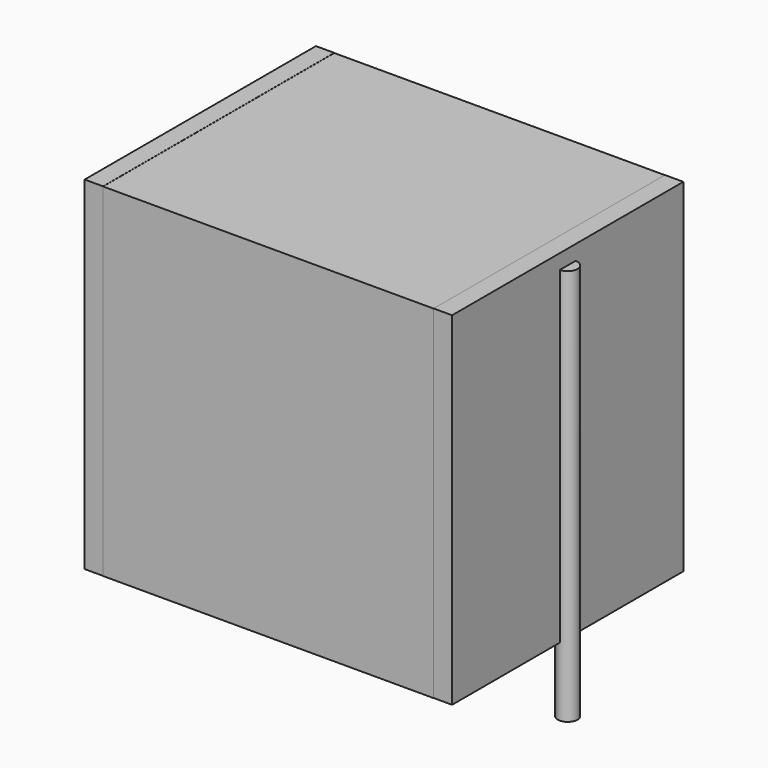
from build123d import *

# Parameters (mm, degrees)
SKETCH_W          = 13.5
SKETCH_H          = 11.8
PAD_DEPTH         = 14
SKETCH001_R       = 0.4
PAD001_DEPTH      = 13
PAD001_DEPTH_BACK = 3.2
SKETCH002_W       = 0.75
SKETCH002_H       = 11.8
PAD002_DEPTH      = 14


with BuildPart() as pad:
    # Sketch → Pad (new body)
    with BuildSketch(Plane.XY.offset(0.1)):
        with Locations((7.5, 0)):
            Rectangle(SKETCH_W, SKETCH_H)
    extrude(amount=PAD_DEPTH)


with BuildPart() as pad001:
    # Sketch001 → Pad001 (new body, two sides)
    with BuildSketch(Plane.XY.offset(0.5)) as pad001_sk:
        Circle(SKETCH001_R)
        with Locations((15, 0)):
            Circle(SKETCH001_R)
    extrude(amount=PAD001_DEPTH)
    extrude(pad001_sk.sketch, amount=-PAD001_DEPTH_BACK)


with BuildPart() as pad002:
    # Sketch002 → Pad002 (new body)
    with BuildSketch(Plane.XY.offset(0.105)):
        with Locations((0.375, 0)):
            Rectangle(SKETCH002_W, SKETCH002_H)
        with Locations((14.625, 0)):
            Rectangle(SKETCH002_W, SKETCH002_H)
    extrude(amount=PAD002_DEPTH)


solid = Compound([pad.part, pad001.part, pad002.part])
